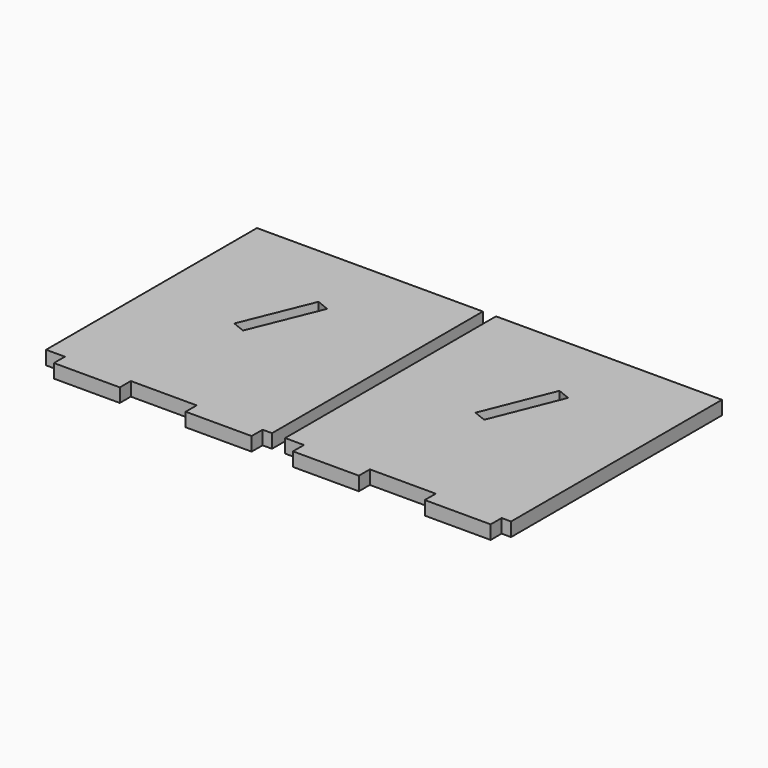
from build123d import *

# Parameters (mm, degrees)
F0_W     = 88.9
F0_H     = 18.542
F1_DEPTH = 18.542
F2_W     = 88.9
F2_H     = 18.542
F3_DEPTH = 18.542


with BuildPart() as f1:
    # F0 (on Top) → F1 (new body)
    with BuildSketch(Plane.XY):
        Polygon((-322.507762, 355.6), (-322.507762, 0), (-297.107762, 0), (-208.207762, 0), (-119.307762, 0), (-30.407762, 0), (-17.707762, 0), (-17.707762, 152.4), (-17.707762, 177.8), (-17.707762, 203.2), (-17.707762, 355.6), align=None)
        Polygon((-187.909919, 163.727349), (-205.080003, 170.726919), (-166.726192, 264.80957), (-149.556108, 257.81), align=None, mode=Mode.SUBTRACT)
        with Locations((-252.657762, -9.271)):
            Rectangle(F0_W, F0_H)
        with Locations((-74.857762, -9.271)):
            Rectangle(F0_W, F0_H)
    extrude(amount=F1_DEPTH)


with BuildPart() as f3:
    # F2 (on Top) → F3 (new body)
    with BuildSketch(Plane.XY):
        Polygon((0, 355.6), (0, 0), (25.4, 0), (114.3, 0), (203.2, 0), (292.1, 0), (304.8, 0), (304.8, 177.8), (304.8, 355.6), align=None)
        Polygon((137.681715, 163.525689), (120.474829, 170.434293), (158.330193, 264.718604), (175.53708, 257.81), align=None, mode=Mode.SUBTRACT)
        with Locations((247.65, -9.271)):
            Rectangle(F2_W, F2_H)
        with Locations((69.85, -9.271)):
            Rectangle(F2_W, F2_H)
    extrude(amount=F3_DEPTH)


solid = Compound([f1.part, f3.part])
